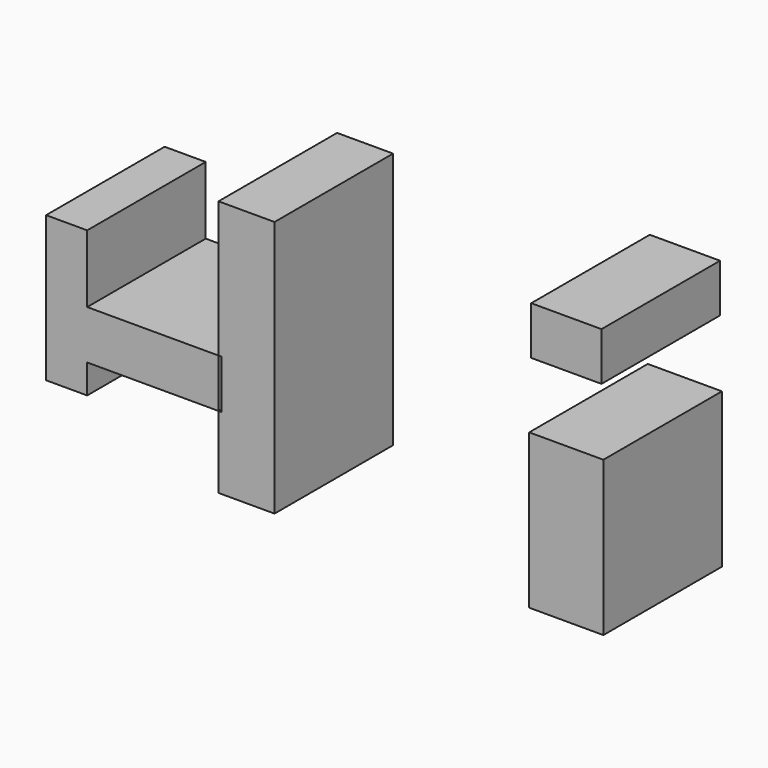
from build123d import *

# Parameters (mm, degrees)
F0_W     = 44.4966894574
F0_H     = 142.6403382793
F3_DEPTH = 99.9430287629
F2_W     = 12.7120167017
F2_H     = 26.4651998878
F4_DEPTH = 25.4
F2_W_2   = 12.0422691107
F2_H_2   = 8.2615166903
F2_W_3   = 22.5125998259
F2_H_3   = 8.3593800664


with BuildPart() as f3:
    # F0 (on Front) → F3 (new body)
    with BuildSketch(Plane.XZ):
        with Locations((25.8182415273, 74.7748683207)):
            Rectangle(F0_W, F0_H)
    extrude(amount=F3_DEPTH)


with BuildPart() as f4:
    # F2 (on Front) → F4 (new body)
    with BuildSketch(Plane.XZ):
        with Locations((33.1495031714, 21.6533355415)):
            Rectangle(F2_W, F2_H)
    extrude(amount=F4_DEPTH)


with BuildPart() as f4b:
    # F2 (on Front) → F4, piece 2 (new body)
    with BuildSketch(Plane.XZ):
        with Locations((33.161111176, 50.3589212894)):
            Rectangle(F2_W_2, F2_H_2)
    extrude(amount=F4_DEPTH)


with BuildPart() as f4c:
    # F2 (on Front) → F4, piece 3 (new body)
    with BuildSketch(Plane.XZ):
        Polygon((-26.4651924372, 52.4320825934), (-26.4651924372, 29.1534587741), (-25.9496346116, 29.1534587741), (-25.9496346116, 20.7940787077), (-26.4651924372, 20.7940787077), (-26.4651924372, 8.4207355976), (-16.8632790446, 8.4207355976), (-16.8632790446, 52.4320825934), align=None)
    extrude(amount=F4_DEPTH)


with BuildPart() as f4d:
    # F2 (on Front) → F4, piece 4 (new body)
    with BuildSketch(Plane.XZ):
        Polygon((-48.977792263, 40.7288968563), (-56.0237169266, 40.7288968563), (-56.0237169266, 15.8103704453), (-48.977792263, 15.8103704453), (-48.977792263, 20.7940787077), (-48.977792263, 29.1534587741), align=None)
        with Locations((-37.7214923501, 24.9737687409)):
            Rectangle(F2_W_3, F2_H_3)
    extrude(amount=F4_DEPTH)


solid = Compound([f4.part, f4b.part, f4c.part, f4d.part])
